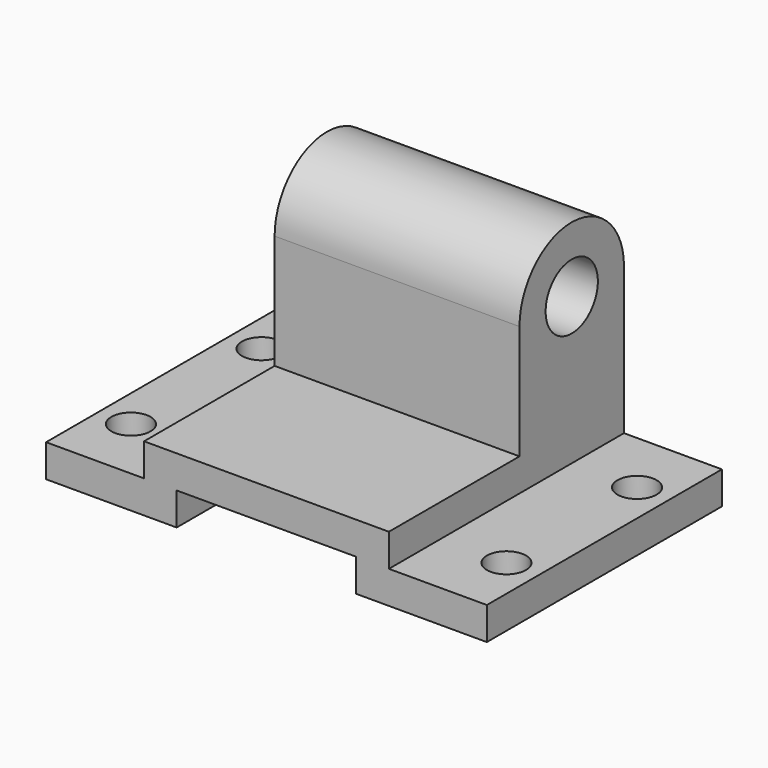
from build123d import *

# Parameters (mm, degrees)
F1_DEPTH  = 90
F2_R      = 6
F3_DEPTH  = 10
F4_R      = 6
F5_DEPTH  = 10
F6_R      = 6
F8_DEPTH  = 10
F7_R      = 6
F9_DEPTH  = 10
F10_R     = 10
F11_DEPTH = 75


with BuildPart() as f1:
    # F0 (on Front) → F1 (new body)
    with BuildSketch(Plane.XZ):
        Polygon((-95, 10), (-95, 0), (-55, 0), (-55, 10), (0, 10), (0, 0), (40, 0), (40, 10), (10, 10), (10, 20), (-65, 20), (-65, 10), align=None)
    extrude(amount=F1_DEPTH)

    # F2 (on face) → F3 (cut)
    with BuildSketch(Plane.XY.offset(10)):
        with Locations((-85, -70)):
            Circle(F2_R)
    extrude(amount=-F3_DEPTH, mode=Mode.SUBTRACT)

    # F4 (on face) → F5 (cut)
    with BuildSketch(Plane.XY.offset(10)):
        with Locations((30, -70)):
            Circle(F4_R)
    extrude(amount=-F5_DEPTH, mode=Mode.SUBTRACT)

    # F6 (on face) → F8 (cut)
    with BuildSketch(Plane.XY.offset(10)):
        with Locations((-85, -20)):
            Circle(F6_R)
    extrude(amount=-F8_DEPTH, mode=Mode.SUBTRACT)

    # F7 (on face) → F9 (cut)
    with BuildSketch(Plane.XY.offset(10)):
        with Locations((30, -20)):
            Circle(F7_R)
    extrude(amount=-F9_DEPTH, mode=Mode.SUBTRACT)

    # F10 (on face) → F11 (join, through all)
    with BuildSketch(Plane(origin=(-65, 0, 0), x_dir=(0, -1, 0), z_dir=(-1, 0, 0))):
        with BuildLine():
            Line((0, 55), (0, 20))
            Line((0, 20), (40, 20))
            Line((40, 20), (40, 55))
            ThreePointArc((40, 55), (20, 75), (0, 55))
        make_face()
        with Locations((20, 55)):
            Circle(F10_R, mode=Mode.SUBTRACT)
    extrude(amount=-F11_DEPTH)


solid = f1.part
